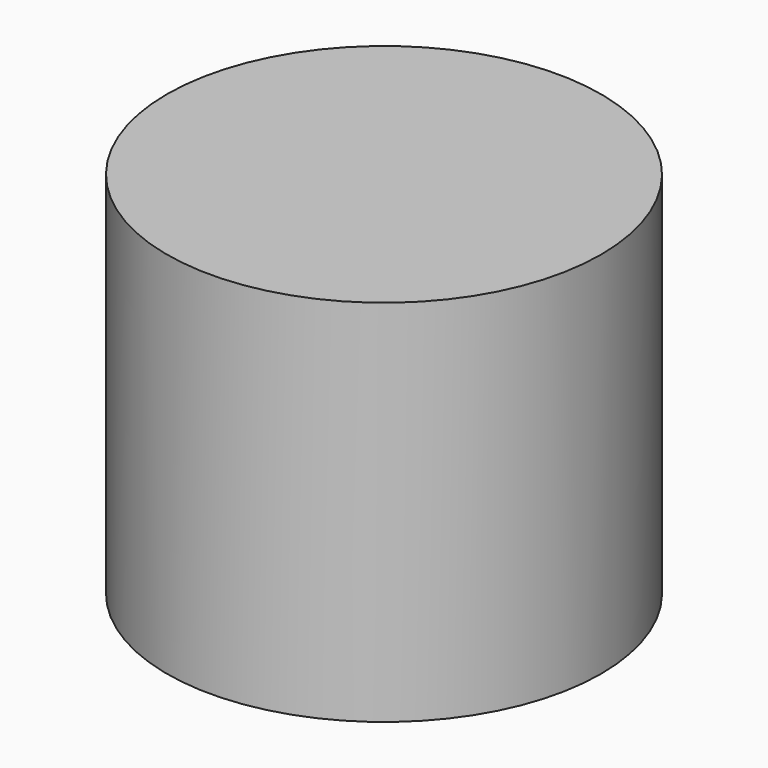
from build123d import *

# Parameters (mm, degrees)
F3_DEPTH = 11.8


with BuildPart() as f1:
    # F0 (on Front) → F1 (revolve)
    with BuildSketch(Plane.XZ):
        Polygon((0, 16), (0, 17), (-10, 17), (-10, 0), (-9, 0), (-9, 4.2), (-3, 4.2), (-3, 16), align=None)
    revolve(axis=Axis((0, 0, 11.945563), (0, 0, -1)))

    # F2 (on face) → F3 (join, through all)
    with BuildSketch(Plane(origin=(0, 0, 16), x_dir=(1, 0, 0), z_dir=(0, 0, -1))):
        with BuildLine():
            Line((-2, -2.236068), (-2, 2.236068))
            ThreePointArc((-2, 2.236068), (-3, 0), (-2, -2.236068))
        make_face()
    extrude(amount=F3_DEPTH)


solid = f1.part
